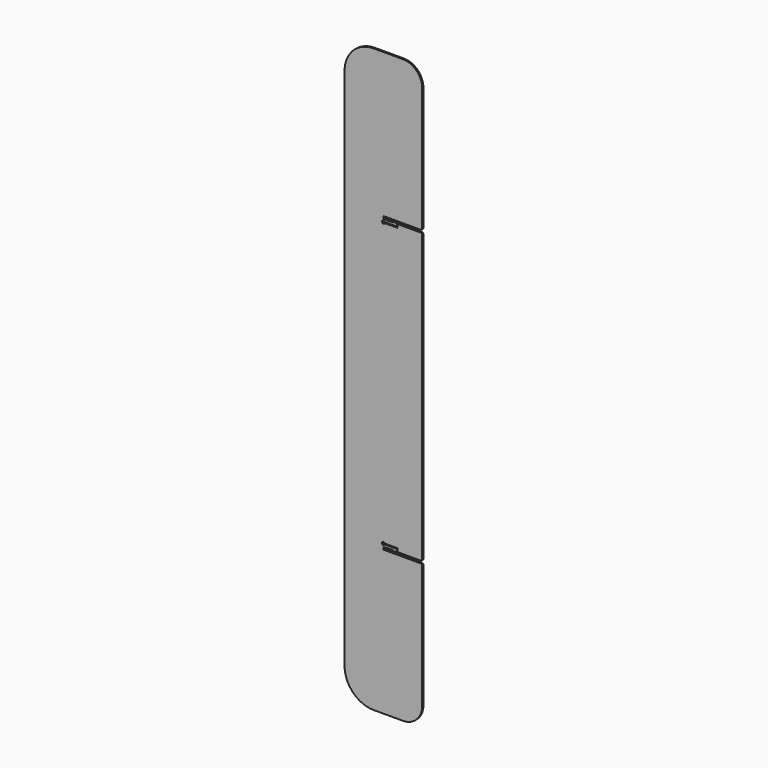
from build123d import *

# Parameters (mm, degrees)
F1_DEPTH      = 0.75
F1_DEPTH_BACK = 0.75


with BuildPart() as f1:
    # F0 (on Front) → F1 (new body, two sides)
    with BuildSketch(Plane.XZ) as f1_sk:
        with BuildLine():
            Line((40, 302.275), (40, 430))
            ThreePointArc((40, 430), (34.142136, 444.142136), (20, 450))
            Line((20, 450), (-10, 450))
            ThreePointArc((-10, 450), (-31.213203, 441.213203), (-40, 420))
            Line((-40, 420), (-40, -120))
            ThreePointArc((-40, -120), (-31.213203, -141.213203), (-10, -150))
            Line((-10, -150), (20, -150))
            ThreePointArc((20, -150), (34.142136, -144.142136), (40, -130))
            Line((40, -130), (40, -2.275))
            Line((40, -2.275), (39, -1.275))
            Line((39, -1.275), (0.1, -1.275))
            ThreePointArc((0.1, -1.275), (-0.070711, -1.345711), (0, -1.175))
            Line((0, -1.175), (0, 0))
            Line((0, 0), (0, 1.175))
            ThreePointArc((0, 1.175), (-0.070711, 1.345711), (0.1, 1.275))
            Line((0.1, 1.275), (3, 1.275))
            Line((3, 1.275), (3.2, 1.475))
            Line((3.2, 1.475), (9.792945, 1.475))
            ThreePointArc((9.792945, 1.475), (9.914697, 1.433671), (9.98613, 1.326764))
            Line((9.98613, 1.326764), (10.133975, 0.775))
            Line((10.133975, 0.775), (13.051132, 0.775))
            ThreePointArc((13.051132, 0.775), (13.127669, 0.790224), (13.192553, 0.833579))
            Line((13.192553, 0.833579), (13.941421, 1.582447))
            ThreePointArc((13.941421, 1.582447), (13.984776, 1.647331), (14, 1.723868))
            Line((14, 1.723868), (14, 3.55))
            ThreePointArc((14, 3.55), (13.941421, 3.691421), (13.8, 3.75))
            Line((13.8, 3.75), (1.414214, 3.75))
            ThreePointArc((1.414214, 3.75), (0.866025, 3.025255), (0, 2.75))
            ThreePointArc((0, 2.75), (-1.224745, 5.116025), (1.414214, 4.75))
            Line((1.414214, 4.75), (14.3, 4.75))
            ThreePointArc((14.3, 4.75), (14.441421, 4.691421), (14.5, 4.55))
            Line((14.5, 4.55), (14.5, 1.475))
            ThreePointArc((14.5, 1.475), (14.558579, 1.333579), (14.7, 1.275))
            Line((14.7, 1.275), (39, 1.275))
            Line((39, 1.275), (40, 2.275))
            Line((40, 2.275), (40, 297.725))
            Line((40, 297.725), (39, 298.725))
            Line((39, 298.725), (14.7, 298.725))
            ThreePointArc((14.7, 298.725), (14.558579, 298.666421), (14.5, 298.525))
            Line((14.5, 298.525), (14.5, 295.45))
            ThreePointArc((14.5, 295.45), (14.441421, 295.308579), (14.3, 295.25))
            Line((14.3, 295.25), (1.414214, 295.25))
            ThreePointArc((1.414214, 295.25), (-1.224745, 294.883975), (0, 297.25))
            ThreePointArc((0, 297.25), (0.866025, 296.974745), (1.414214, 296.25))
            Line((1.414214, 296.25), (13.8, 296.25))
            ThreePointArc((13.8, 296.25), (13.941421, 296.308579), (14, 296.45))
            Line((14, 296.45), (14, 298.276132))
            ThreePointArc((14, 298.276132), (13.984776, 298.352669), (13.941421, 298.417553))
            Line((13.941421, 298.417553), (13.192553, 299.166421))
            ThreePointArc((13.192553, 299.166421), (13.127669, 299.209776), (13.051132, 299.225))
            Line((13.051132, 299.225), (10.133975, 299.225))
            Line((10.133975, 299.225), (9.98613, 298.673236))
            ThreePointArc((9.98613, 298.673236), (9.914697, 298.566329), (9.792945, 298.525))
            Line((9.792945, 298.525), (3.2, 298.525))
            Line((3.2, 298.525), (3, 298.725))
            Line((3, 298.725), (0.1, 298.725))
            ThreePointArc((0.1, 298.725), (-0.070711, 298.654289), (0, 298.825))
            Line((0, 298.825), (0, 300))
            Line((0, 300), (0, 301.175))
            ThreePointArc((0, 301.175), (-0.070711, 301.345711), (0.1, 301.275))
            Line((0.1, 301.275), (39, 301.275))
            Line((39, 301.275), (40, 302.275))
        make_face()
    extrude(amount=F1_DEPTH)
    extrude(f1_sk.sketch, amount=-F1_DEPTH_BACK)


solid = f1.part
